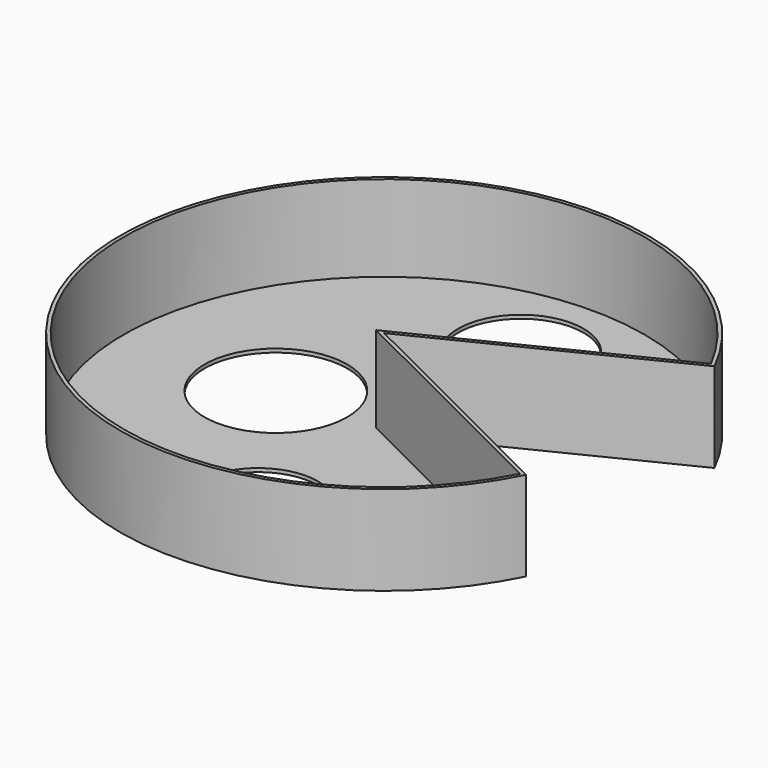
from build123d import *

# Parameters (mm, degrees)
F1_DEPTH = 25
F2_T     = -1
F3_R     = 17.4987493925
F3_R_2   = 19.9459826056
F3_R_3   = 16.6986363046
F4_DEPTH = 25


with BuildPart() as f1:
    # F0 (on Top) → F1 (new body)
    with BuildSketch(Plane.XY):
        with BuildLine():
            Line((0, 0), (66.0444054393, 32.7673294005))
            ThreePointArc((66.0444054393, 32.7673294005), (-73.7262362975, 0.0587134026), (65.9921318293, -32.872479409))
            Line((65.9921318293, -32.872479409), (0, 0))
        make_face()
    extrude(amount=F1_DEPTH)

    # F2
    f2_openings = [f1.faces().sort_by_distance(p)[0] for p in [
        (-8.163422, 0.006501, 25),
    ]]
    offset(amount=F2_T, openings=f2_openings, kind=Kind.INTERSECTION)

    # F3 (on Top) → F4 (cut)
    with BuildSketch(Plane.XY):
        with Locations((0, 47.7580688894)):
            Circle(F3_R)
        with Locations((-30.2298404276, 0)):
            Circle(F3_R_2)
        with Locations((0, -43.9475812018)):
            Circle(F3_R_3)
    extrude(amount=F4_DEPTH, mode=Mode.SUBTRACT)


solid = f1.part
